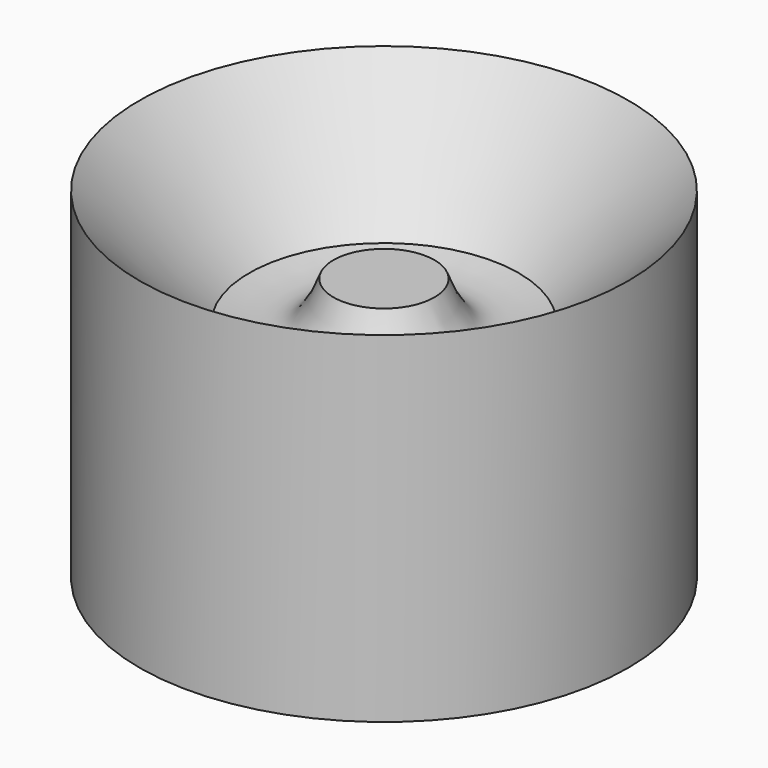
from build123d import *


with BuildPart() as f1:
    # F0 (on Front) → F1 (revolve)
    with BuildSketch(Plane.XZ):
        with BuildLine():
            Line((0, 35.5647131801), (0, 0))
            Line((0, 0), (5.7116975076, 0))
            add(Edge.make_bspline(
                [(5.7116975076, 0), (9.7684258885, 1.3927630293), (14.2309682704, 6.4486748158), (27.0768163621, 2.9683188767), (31.2772132456, 1.8954238622)],
                knots=[0, 0, 0, 0, 0.449226483, 1, 1, 1, 1], degree=3))
            Line((31.2772132456, 1.8954238622), (31.2772132456, 45.4902723432))
            Line((31.2772132456, 45.4902723432), (17.2445252538, 30.6019335985))
            add(Edge.make_bspline(
                [(6.4633144066, 35.5647131801), (7.3961277309, 33.2540420548), (9.307332152, 28.5197991411), (14.5570629373, 29.8969415666), (17.2445252538, 30.6019335985)],
                knots=[0, 0, 0, 0, 0.488076165, 1, 1, 1, 1], degree=3))
            Line((6.4633144066, 35.5647131801), (0, 35.5647131801))
        make_face()
    revolve(axis=Axis((0, 0, 17.78235659), (0, 0, 1)))


solid = f1.part
